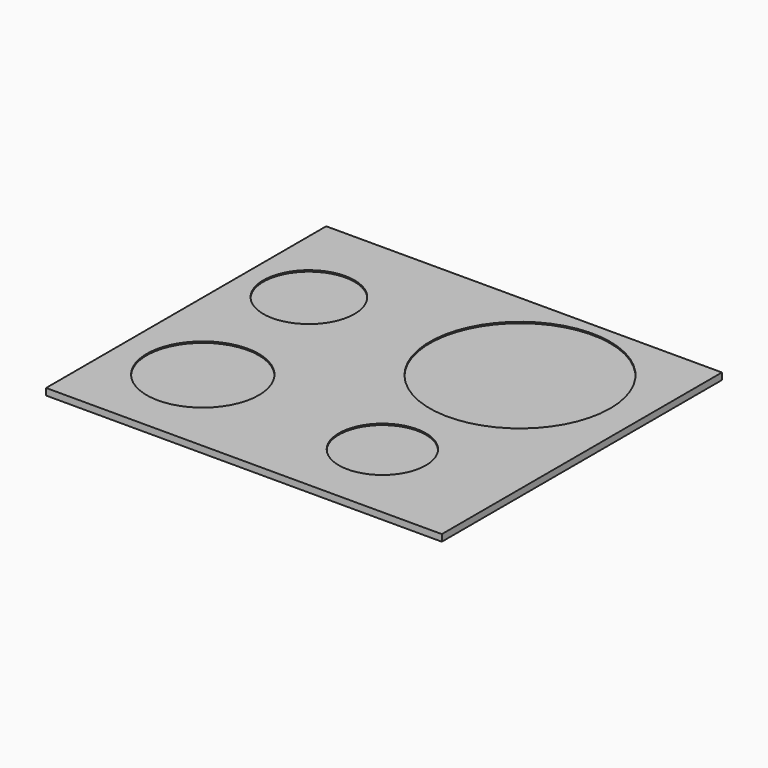
from build123d import *

# Parameters (mm, degrees)
F0_W     = 590
F0_H     = 522
F1_DEPTH = 10
F2_R     = 68.024287
F2_R_2   = 134.538577
F2_R_3   = 83.57366
F2_R_4   = 64.8795
F3_DEPTH = 2


with BuildPart() as f1:
    # F0 (on Top) → F1 (new body)
    with BuildSketch(Plane.XY):
        with Locations((252.768779, 236.110102)):
            Rectangle(F0_W, F0_H)
    extrude(amount=F1_DEPTH)

    # F2 (on face) → F3 (cut)
    with BuildSketch(Plane.XY.offset(10)):
        with Locations((53.657949, 345.052779)):
            Circle(F2_R)
        with Locations((368.359745, 345.052779)):
            Circle(F2_R_2)
        with Locations((79.02775, 115.514673)):
            Circle(F2_R_3)
        with Locations((360.102326, 98.916218)):
            Circle(F2_R_4)
    extrude(amount=-F3_DEPTH, mode=Mode.SUBTRACT)


solid = f1.part
